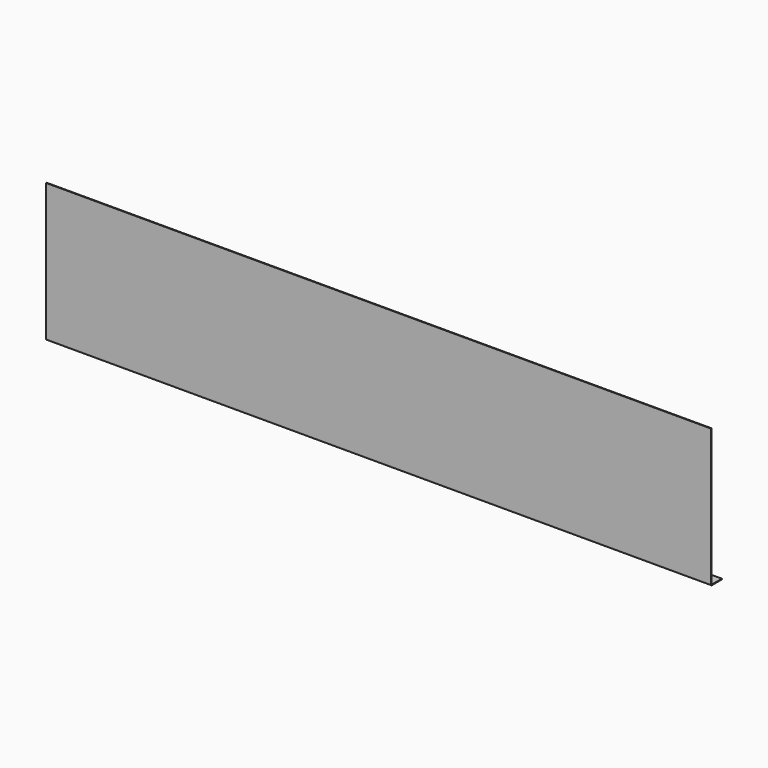
from build123d import *

# Parameters (mm, degrees)
F1_DEPTH = 1920
F3_W     = 1575.5
F3_H     = 34
F4_DEPTH = 5
F5_DEPTH = 12.5
F6_DEPTH = 12.5


with BuildPart() as f1:
    # F0 (on Right) → F1 (new body)
    with BuildSketch(Plane.YZ):
        with BuildLine():
            Line((1.9999950999, 234.3236088878), (0, 234.3236088878))
            Line((0, 234.3236088878), (0, -161.6763911122))
            ThreePointArc((0, -161.6763911122), (1.1715728753, -164.5048182369), (4, -165.6763911122))
            Line((4, -165.6763911122), (40, -165.6763911122))
            Line((40, -165.6763911122), (40, -163.6763960123))
            Line((40, -163.6763960123), (4, -163.6763960123))
            ThreePointArc((4, -163.6763960123), (2.5857829727, -163.0906081395), (1.9999950999, -161.6763911122))
            Line((1.9999950999, -161.6763911122), (1.9999950999, 234.3236088878))
        make_face()
    extrude(amount=F1_DEPTH)


with BuildPart() as f4:
    # F3 (on face) → F4 (new body)
    with BuildSketch(Plane.XY.offset(-163.6763960123)):
        with Locations((1052.75, 23)):
            Rectangle(F3_W, F3_H)
    extrude(amount=F4_DEPTH)


with BuildPart() as f5_tool:
    # F2 (on face) → F5 (new body, symmetric)
    with BuildSketch(Plane.XY.offset(-163.6763960123)):
        with BuildLine():
            Line((1790.5, 20), (1812.1483534558, 20))
            ThreePointArc((1812.1483534558, 20), (1830.5, 25.5), (1812.1483534558, 31))
            Line((1812.1483534558, 31), (1790.5, 31))
            ThreePointArc((1790.5, 31), (1785, 25.5), (1790.5, 20))
        make_face()
        with BuildLine():
            Line((1035.5, 20), (1057.1483534558, 20))
            ThreePointArc((1057.1483534558, 20), (1075.5, 25.5), (1057.1483534558, 31))
            Line((1057.1483534558, 31), (1035.5, 31))
            ThreePointArc((1035.5, 31), (1030, 25.5), (1035.5, 20))
        make_face()
        with BuildLine():
            Line((280.5, 20), (302.1483534558, 20))
            ThreePointArc((302.1483534558, 20), (320.5, 25.5), (302.1483534558, 31))
            Line((302.1483534558, 31), (280.5, 31))
            ThreePointArc((280.5, 31), (275, 25.5), (280.5, 20))
        make_face()
    extrude(amount=F5_DEPTH, both=True)


with BuildPart() as f1_1:
    add(f1.part)

    # F5: cut by f5_tool
    add(f5_tool.part, mode=Mode.SUBTRACT)

    # F2 (on face) → F6 (cut, symmetric)
    with BuildSketch(Plane.XY.offset(-163.6763960123)):
        with BuildLine():
            Line((1790.5, 20), (1812.1483534558, 20))
            ThreePointArc((1812.1483534558, 20), (1830.5, 25.5), (1812.1483534558, 31))
            Line((1812.1483534558, 31), (1790.5, 31))
            ThreePointArc((1790.5, 31), (1785, 25.5), (1790.5, 20))
        make_face()
        with BuildLine():
            Line((1035.5, 20), (1057.1483534558, 20))
            ThreePointArc((1057.1483534558, 20), (1075.5, 25.5), (1057.1483534558, 31))
            Line((1057.1483534558, 31), (1035.5, 31))
            ThreePointArc((1035.5, 31), (1030, 25.5), (1035.5, 20))
        make_face()
        with BuildLine():
            Line((280.5, 20), (302.1483534558, 20))
            ThreePointArc((302.1483534558, 20), (320.5, 25.5), (302.1483534558, 31))
            Line((302.1483534558, 31), (280.5, 31))
            ThreePointArc((280.5, 31), (275, 25.5), (280.5, 20))
        make_face()
    extrude(amount=F6_DEPTH, both=True, mode=Mode.SUBTRACT)


with BuildPart() as f4_1:
    add(f4.part)

    # F5: cut by f5_tool
    add(f5_tool.part, mode=Mode.SUBTRACT)


solid = Compound([f1_1.part, f4_1.part])
